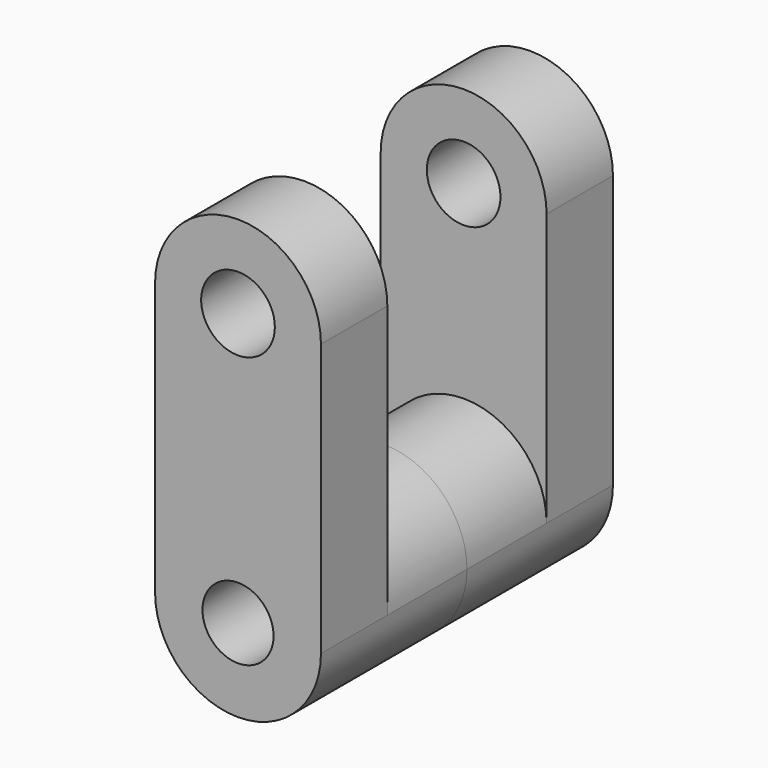
from build123d import *

# Parameters (mm, degrees)
F0_R     = 11.101292
F0_R_2   = 10.706517
F1_DEPTH = 25
F2_DEPTH = 30


with BuildPart() as f1:
    # F0 (on Front) → F1 (new body)
    with BuildSketch(Plane.XZ):
        with BuildLine():
            Line((-25, 57.079587), (-24.999876, -24.921242))
            ThreePointArc((-24.999876, -24.921242), (0.039379, -3.1e-05), (25, -25))
            Line((25, -25), (25, 57.079587))
            ThreePointArc((25, 57.079587), (0, 82.079587), (-25, 57.079587))
        make_face()
        with Locations((0, 57.079587)):
            Circle(F0_R, mode=Mode.SUBTRACT)
        with BuildLine():
            ThreePointArc((25, -25), (0.039379, -3.1e-05), (-24.999876, -24.921242))
            ThreePointArc((-24.999876, -24.921242), (-24.999969, -24.960621), (-25, -25))
            ThreePointArc((-25, -25), (0, -50), (25, -25))
        make_face()
        with Locations((0, -25)):
            Circle(F0_R_2, mode=Mode.SUBTRACT)
    extrude(amount=F1_DEPTH)

    # F0 (on Front) → F2 (join)
    with BuildSketch(Plane.XZ):
        with BuildLine():
            ThreePointArc((25, -25), (0.039379, -3.1e-05), (-24.999876, -24.921242))
            ThreePointArc((-24.999876, -24.921242), (-24.999969, -24.960621), (-25, -25))
            ThreePointArc((-25, -25), (0, -50), (25, -25))
        make_face()
        with Locations((0, -25)):
            Circle(F0_R_2, mode=Mode.SUBTRACT)
    extrude(amount=-F2_DEPTH)

    # F3: F1 across face


with BuildPart() as f1_1:
    add(f1.part)
    add(f1.part.mirror(Plane(origin=(0, 30, -25), x_dir=(1, 0, 0), z_dir=(0, 1, 0))))


solid = f1_1.part
